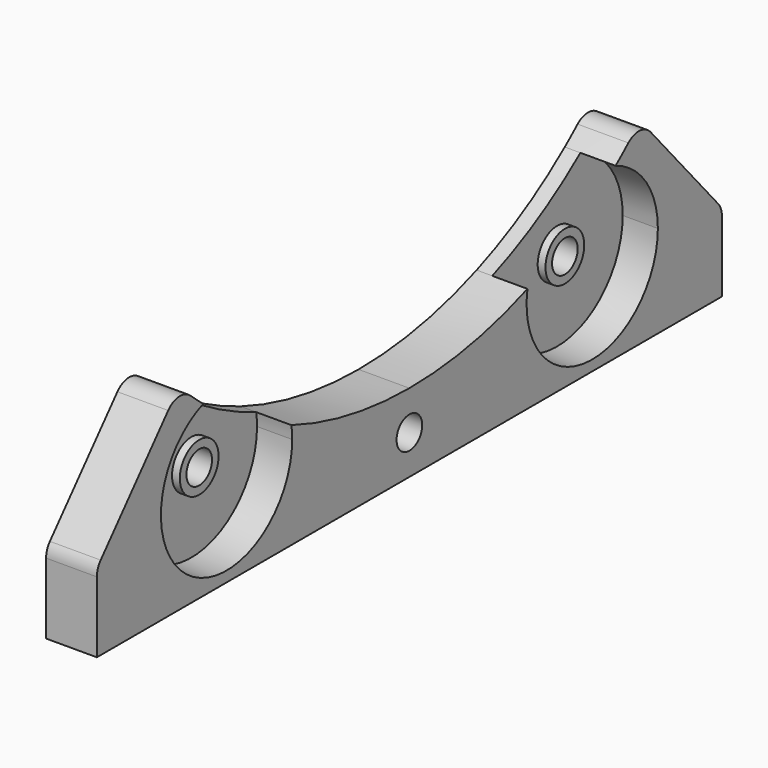
from build123d import *

# Parameters (mm, degrees)
F0_R     = 6.2
F0_R_2   = 4.1
F1_DEPTH = 6
F2_DEPTH = 4
F3_DEPTH = 13


with BuildPart() as f1:
    # F0 (on Right) → F1 (new body)
    with BuildSketch(Plane.YZ):
        with Locations((58.5, -101.3249722428)):
            Circle(F0_R)
        with Locations((58.5, -101.3249722428)):
            Circle(F0_R_2, mode=Mode.SUBTRACT)
    extrude(amount=F1_DEPTH)

    # F0 (on Right) → F2, piece 2 (join)
    with BuildSketch(Plane.YZ):
        with BuildLine():
            ThreePointArc((79.5, -101.3249722428), (75.7871035755, -89.4020510416), (65.9613285744, -81.6951842687))
            ThreePointArc((65.9613285744, -81.6951842687), (52.5, -90.9326673974), (37.7694406564, -97.9717783471))
            ThreePointArc((37.7694406564, -97.9717783471), (56.8179991402, -122.2575036976), (79.5, -101.3249722428))
        make_face()
        with Locations((58.5, -101.3249722428)):
            Circle(F0_R, mode=Mode.SUBTRACT)
    extrude(amount=F2_DEPTH)



with BuildPart() as f1b:
    # F0 (on Right) → F1, piece 2 (new body)
    with BuildSketch(Plane.YZ):
        with Locations((-58.5, -101.3249722428)):
            Circle(F0_R)
        with Locations((-58.5, -101.3249722428)):
            Circle(F0_R_2, mode=Mode.SUBTRACT)
    extrude(amount=F1_DEPTH)

    # F0 (on Right) → F2 (join)
    with BuildSketch(Plane.YZ):
        with BuildLine():
            ThreePointArc((-37.7694406564, -97.9717783471), (-52.5, -90.9326673974), (-65.9613285744, -81.6951842687))
            ThreePointArc((-65.9613285744, -81.6951842687), (-70.4229212012, -118.6120758183), (-37.5, -101.3249722428))
            ThreePointArc((-37.5, -101.3249722428), (-37.5674685452, -99.642971383), (-37.7694406564, -97.9717783471))
        make_face()
        with Locations((-58.5, -101.3249722428)):
            Circle(F0_R, mode=Mode.SUBTRACT)
    extrude(amount=F2_DEPTH)


with BuildPart() as f1_1:
    add(f1.part)

    add(f1b.part)  # F3 merges F1b
    # F0 (on Right) → F3 (join)
    with BuildSketch(Plane.YZ):
        with BuildLine():
            ThreePointArc((-37.5, -101.3249722428), (-70.4229212012, -118.6120758183), (-65.9613285744, -81.6951842687))
            ThreePointArc((-65.9613285744, -81.6951842687), (-68.0346725838, -79.9767674166), (-70.0632666757, -78.2057457143))
            ThreePointArc((-70.0632666757, -78.2057457143), (-73.7153806196, -76.9398097428), (-77.1787849633, -78.6560150029))
            Line((-77.1787849633, -78.6560150029), (-98.7791722555, -103.5907206196))
            ThreePointArc((-98.7791722555, -103.5907206196), (-99.6848618591, -105.1175171847), (-100, -106.8645344603))
            Line((-100, -106.8645344603), (-100, -125))
            Line((-100, -125), (0, -125))
            Line((0, -125), (100, -125))
            Line((100, -125), (100, -106.8645344603))
            ThreePointArc((100, -106.8645344603), (99.6848618591, -105.1175171847), (98.7791722555, -103.5907206196))
            Line((98.7791722555, -103.5907206196), (77.1787849633, -78.6560150029))
            ThreePointArc((77.1787849633, -78.6560150029), (73.7153806196, -76.9398097428), (70.0632666757, -78.2057457143))
            ThreePointArc((70.0632666757, -78.2057457143), (68.0346725838, -79.9767674166), (65.9613285744, -81.6951842687))
            ThreePointArc((65.9613285744, -81.6951842687), (75.7871035755, -89.4020510416), (79.5, -101.3249722428))
            ThreePointArc((79.5, -101.3249722428), (56.8179991402, -122.2575036976), (37.7694406564, -97.9717783471))
            ThreePointArc((37.7694406564, -97.9717783471), (19.2088947307, -103.2279921495), (0, -105))
            ThreePointArc((0, -105), (-19.2088947307, -103.2279921495), (-37.7694406564, -97.9717783471))
            ThreePointArc((-37.7694406564, -97.9717783471), (-37.5674685452, -99.642971383), (-37.5, -101.3249722428))
        make_face()
        with Locations((0, -115)):
            Circle(F0_R_2, mode=Mode.SUBTRACT)
    extrude(amount=F3_DEPTH)


solid = f1_1.part
